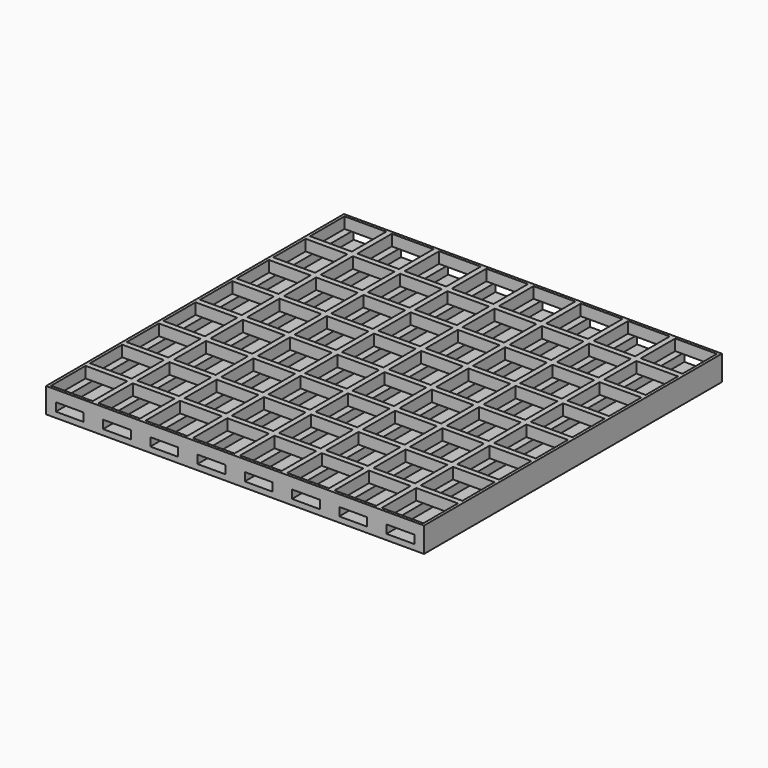
from build123d import *

# Parameters (mm, degrees)
F0_W     = 3.5
F0_H     = 3
F0_W_2   = 7
F1_DEPTH = 134
F2_W     = 1
F2_H     = 4
F2_W_2   = 2
F3_DEPTH = 134
F4_W     = 1
F4_H     = 4
F4_W_2   = 2
F5_DEPTH = 136


with BuildPart() as f1:
    # F0 (on Front) → F1 (new body)
    with BuildSketch(Plane.XZ):
        with Locations((-66.25, 3.5)):
            Rectangle(F0_W, F0_H)
        with Locations((-17, 3.5)):
            Rectangle(F0_W_2, F0_H)
        with Locations((66.25, 3.5)):
            Rectangle(F0_W, F0_H)
        Polygon((-64.5, 2), (-68, 2), (-68, 0), (68, 0), (68, 2), (64.5, 2), (54.5, 2), (47.5, 2), (37.5, 2), (30.5, 2), (20.5, 2), (13.5, 2), (3.5, 2), (-3.5, 2), (-13.5, 2), (-20.5, 2), (-30.5, 2), (-37.5, 2), (-47.5, 2), (-54.5, 2), align=None)
        with Locations((-51, 3.5)):
            Rectangle(F0_W_2, F0_H)
        with Locations((-34, 3.5)):
            Rectangle(F0_W_2, F0_H)
        with Locations((0, 3.5)):
            Rectangle(F0_W_2, F0_H)
        with Locations((17, 3.5)):
            Rectangle(F0_W_2, F0_H)
        with Locations((34, 3.5)):
            Rectangle(F0_W_2, F0_H)
        with Locations((51, 3.5)):
            Rectangle(F0_W_2, F0_H)
    extrude(amount=F1_DEPTH)

    # F2 (on face) → F3 (join, through all)
    with BuildSketch(Plane.XZ.offset(134)):
        with Locations((-67.5, 7)):
            Rectangle(F2_W, F2_H)
        with Locations((-51, 7)):
            Rectangle(F2_W_2, F2_H)
        with Locations((-34, 7)):
            Rectangle(F2_W_2, F2_H)
        with Locations((-17, 7)):
            Rectangle(F2_W_2, F2_H)
        with Locations((0, 7)):
            Rectangle(F2_W_2, F2_H)
        with Locations((17, 7)):
            Rectangle(F2_W_2, F2_H)
        with Locations((34, 7)):
            Rectangle(F2_W_2, F2_H)
        with Locations((51, 7)):
            Rectangle(F2_W_2, F2_H)
        with Locations((67.5, 7)):
            Rectangle(F2_W, F2_H)
    extrude(amount=-F3_DEPTH)

    # F4 (on face) → F5 (join, through all)
    with BuildSketch(Plane(origin=(-68, 0, 0), x_dir=(0, -1, 0), z_dir=(-1, 0, 0))):
        with Locations((0.5, 7)):
            Rectangle(F4_W, F4_H)
        with Locations((17.5, 7)):
            Rectangle(F4_W_2, F4_H)
        with Locations((34, 7)):
            Rectangle(F4_W_2, F4_H)
        with Locations((50.5, 7)):
            Rectangle(F4_W_2, F4_H)
        with Locations((67, 7)):
            Rectangle(F4_W_2, F4_H)
        with Locations((83.5, 7)):
            Rectangle(F4_W_2, F4_H)
        with Locations((100, 7)):
            Rectangle(F4_W_2, F4_H)
        with Locations((116.5, 7)):
            Rectangle(F4_W_2, F4_H)
        with Locations((133.5, 7)):
            Rectangle(F4_W, F4_H)
    extrude(amount=-F5_DEPTH)


solid = f1.part
